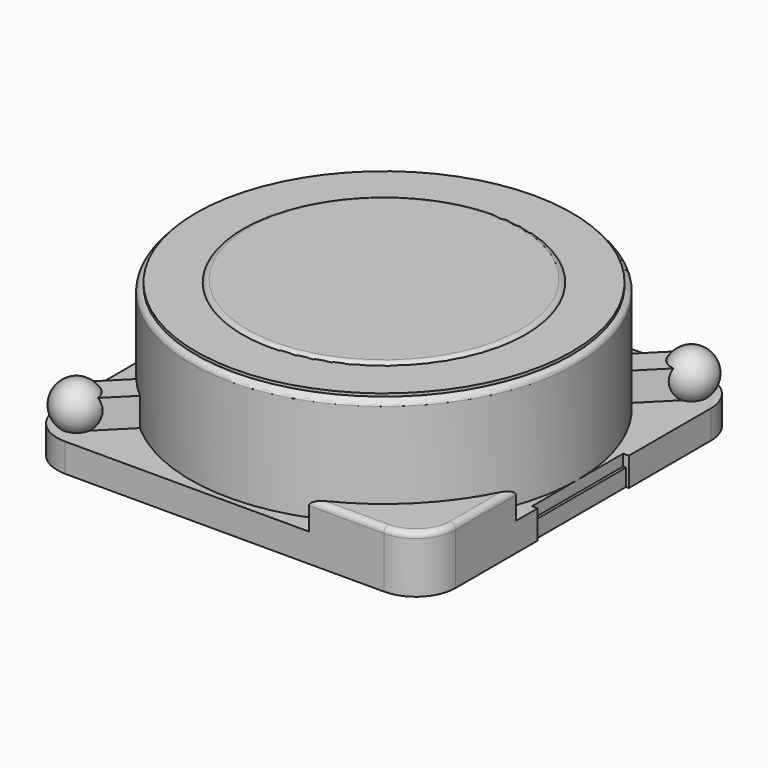
from build123d import *

# Parameters (mm, degrees)
BOX003_W               = 8.5
BOX003_H               = 0.5
BOX003_DEPTH           = 0.5
BOX003_PLACEMENT_ANGLE = 45
BOX005_W               = 0.9
BOX005_H               = 2
BOX005_DEPTH           = 0.3
BOX007_W               = 0.9
BOX007_H               = 2
BOX007_DEPTH           = 0.3
CYLINDER_R             = 3.4
CYLINDER_DEPTH         = 2.4
FILLET_R               = 0.1
CYLINDER001_R          = 2.5
CYLINDER001_DEPTH      = 2.5
FILLET001_R            = 0.1
CYLINDER004_R          = 3.3
CYLINDER004_DEPTH      = 0.3
BOX002_W               = 10
BOX002_H               = 4
BOX002_DEPTH           = 2
BOX002_PLACEMENT_ANGLE = 45
BOX006_W               = 0.2
BOX006_H               = 2
BOX006_DEPTH           = 1
BOX004_W               = 0.2
BOX004_H               = 2
BOX004_DEPTH           = 1
BOX001_W               = 10
BOX001_H               = 10
BOX001_DEPTH           = 10
BOX001_PLACEMENT_ANGLE = 45
CYLINDER003_R          = 3.6
CYLINDER003_DEPTH      = 2.4
BOX_W                  = 10
BOX_H                  = 10
BOX_DEPTH              = 10
BOX_PLACEMENT_ANGLE    = 45
CYLINDER002_R          = 3.8
CYLINDER002_DEPTH      = 2.4
PAD_DEPTH              = 1
FILLET002_R            = 0.1
FILLET003_R            = 0.05


with BuildPart() as obj1:
    # Sphere → Sphere (revolve)
    with BuildSketch(Plane(origin=(3, 3, 0.8), x_dir=(1, 0, 0), z_dir=(0, -1, 0))):
        with BuildLine():
            ThreePointArc((0, -0.4), (0.4, 0), (0, 0.4))
            Line((0, 0.4), (0, -0.4))
        make_face()
    revolve(axis=Axis((3, 3, 0.8), (0, 0, 1)))


with BuildPart() as obj2:
    # Sphere001 → Sphere001 (revolve)
    with BuildSketch(Plane(origin=(-3, -3, 0.8), x_dir=(1, 0, 0), z_dir=(0, -1, 0))):
        with BuildLine():
            ThreePointArc((0, -0.4), (0.4, 0), (0, 0.4))
            Line((0, 0.4), (0, -0.4))
        make_face()
    revolve(axis=Axis((-3, -3, 0.8), (0, 0, 1)))


with BuildPart() as kub003:
    # Box003 → Box003 (new body)
    with BuildSketch(Plane.XY):
        with Locations((4.25, 0.25)):
            Rectangle(BOX003_W, BOX003_H)
    extrude(amount=BOX003_DEPTH)


with BuildPart() as kub003_1:
    # Box003 placement: moved
    add(kub003.part.moved(Location((-2.8, -3.1, 0.5))).rotate(Axis((-2.8, -3.1, 0.5), (0, 0, 1)), BOX003_PLACEMENT_ANGLE))


with BuildPart() as kub005:
    # Box005 → Box005 (new body)
    with BuildSketch(Plane(origin=(2.55, -1, 0), x_dir=(1, 0, 0), z_dir=(0, 0, 1))):
        with Locations((0.45, 1)):
            Rectangle(BOX005_W, BOX005_H)
    extrude(amount=BOX005_DEPTH)


with BuildPart() as kub007:
    # Box007 → Box007 (new body)
    with BuildSketch(Plane(origin=(-3.45, -1, 0), x_dir=(1, 0, 0), z_dir=(0, 0, 1))):
        with Locations((0.45, 1)):
            Rectangle(BOX007_W, BOX007_H)
    extrude(amount=BOX007_DEPTH)


with BuildPart() as fillet_body:
    # Cylinder → Cylinder (new body)
    with BuildSketch(Plane.XY):
        Circle(CYLINDER_R)
    extrude(amount=CYLINDER_DEPTH)

    # Fillet
    fillet_edges = [fillet_body.edges().sort_by_distance(p)[0] for p in [
        (-3.4, 0, 2.4),
    ]]
    fillet(fillet_edges, radius=FILLET_R)


with BuildPart() as fillet001:
    # Cylinder001 → Cylinder001 (new body)
    with BuildSketch(Plane.XY):
        Circle(CYLINDER001_R)
    extrude(amount=CYLINDER001_DEPTH)

    # Fillet001
    fillet001_edges = [fillet001.edges().sort_by_distance(p)[0] for p in [
        (-2.5, 0, 2.5),
    ]]
    fillet(fillet001_edges, radius=FILLET001_R)


with BuildPart() as cylinder004:
    # Cylinder004 → Cylinder004 (new body)
    with BuildSketch(Plane.XY.offset(2.15)):
        Circle(CYLINDER004_R)
    extrude(amount=CYLINDER004_DEPTH)


with BuildPart() as kub002:
    # Box002 → Box002 (new body)
    with BuildSketch(Plane.XY):
        with Locations((5, 2)):
            Rectangle(BOX002_W, BOX002_H)
    extrude(amount=BOX002_DEPTH)


with BuildPart() as kub002_1:
    # Box002 placement: moved
    add(kub002.part.moved(Location((-2, -5, 0.5))).rotate(Axis((-2, -5, 0.5), (0, 0, 1)), BOX002_PLACEMENT_ANGLE))


with BuildPart() as kub006:
    # Box006 → Box006 (new body)
    with BuildSketch(Plane(origin=(-3.6, -1, 0), x_dir=(1, 0, 0), z_dir=(0, 0, 1))):
        with Locations((0.1, 1)):
            Rectangle(BOX006_W, BOX006_H)
    extrude(amount=BOX006_DEPTH)


with BuildPart() as kub004:
    # Box004 → Box004 (new body)
    with BuildSketch(Plane(origin=(3.4, -1, 0), x_dir=(1, 0, 0), z_dir=(0, 0, 1))):
        with Locations((0.1, 1)):
            Rectangle(BOX004_W, BOX004_H)
    extrude(amount=BOX004_DEPTH)


with BuildPart() as kub001:
    # Box001 → Box001 (new body)
    with BuildSketch(Plane.XY):
        with Locations((5, 5)):
            Rectangle(BOX001_W, BOX001_H)
    extrude(amount=BOX001_DEPTH)


with BuildPart() as kub001_1:
    # Box001 placement: moved
    add(kub001.part.moved(Location((1.5, -10.5, 0))).rotate(Axis((1.5, -10.5, 0), (0, 0, 1)), BOX001_PLACEMENT_ANGLE))


with BuildPart() as cut003:
    # Cylinder003 → Cylinder003 (new body)
    with BuildSketch(Plane.XY.offset(0.5)):
        Circle(CYLINDER003_R)
    extrude(amount=CYLINDER003_DEPTH)

    # Cut003: cut Kub001
    add(kub001_1.part, mode=Mode.SUBTRACT)


with BuildPart() as kub:
    # Box → Box (new body)
    with BuildSketch(Plane.XY):
        with Locations((5, 5)):
            Rectangle(BOX_W, BOX_H)
    extrude(amount=BOX_DEPTH)


with BuildPart() as kub_1:
    # Box placement: moved
    add(kub.part.moved(Location((-5, -2, 0))).rotate(Axis((-5, -2, 0), (0, 0, 1)), BOX_PLACEMENT_ANGLE))


with BuildPart() as cut:
    # Cylinder002 → Cylinder002 (new body)
    with BuildSketch(Plane.XY.offset(0.5)):
        Circle(CYLINDER002_R)
    extrude(amount=CYLINDER002_DEPTH)

    # Cut: cut Kub
    add(kub_1.part, mode=Mode.SUBTRACT)


with BuildPart() as fillet003:
    # Sketch → Pad (new body)
    with BuildSketch(Plane.XY):
        with BuildLine():
            Line((-3.5, -2.8), (-3.5, 2.6))
            Line((-3.5, 2.6), (-2.6, 2.6))
            Line((-2.6, 2.6), (-2.6, 3.5))
            Line((-2.6, 3.5), (2.8, 3.5))
            ThreePointArc((3.5, 2.8), (3.294975, 3.294975), (2.8, 3.5))
            Line((3.5, -2.8), (3.5, 2.8))
            ThreePointArc((2.8, -3.5), (3.294975, -3.294975), (3.5, -2.8))
            Line((-2.8, -3.5), (2.8, -3.5))
            ThreePointArc((-3.5, -2.8), (-3.294975, -3.294975), (-2.8, -3.5))
        make_face()
    extrude(amount=PAD_DEPTH)

    # Cut002: cut Cut
    add(cut.part, mode=Mode.SUBTRACT)

    # Cut004: cut Cut003
    add(cut003.part, mode=Mode.SUBTRACT)

    # Cut005: cut Kub004
    add(kub004.part, mode=Mode.SUBTRACT)

    # Cut006: cut Kub006
    add(kub006.part, mode=Mode.SUBTRACT)

    # Cut007: cut Kub002
    add(kub002_1.part, mode=Mode.SUBTRACT)

    # Fillet002
    fillet002_edges = [fillet003.edges().sort_by_distance(p)[0] for p in [
        (2.139932, -3.5, 1),
        (3.294975, -3.294975, 1),
        (3.5, -2.139932, 1),
    ]]
    fillet(fillet002_edges, radius=FILLET002_R)

    # Fillet003
    fillet003_edges = [fillet003.edges().sort_by_distance(p)[0] for p in [
        (-1.721307, 3.5, 1),
        (-2.6, 3.05, 1),
        (-3.05, 2.6, 1),
        (-3.5, 1.8, 1),
    ]]
    fillet(fillet003_edges, radius=FILLET003_R)


solid = Compound([obj1.part, obj2.part, kub003_1.part, kub005.part, kub007.part, fillet_body.part, fillet001.part, cylinder004.part, fillet003.part])
